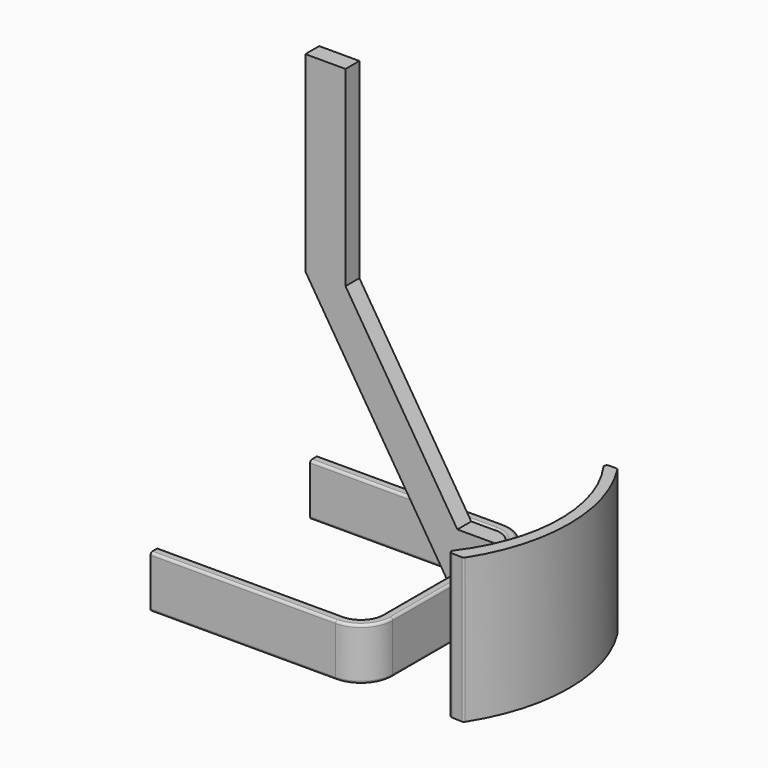
from build123d import *

# Parameters (mm, degrees)
F5_DEPTH = 25.4
F6_W     = 7.058582
F6_H     = 33.581745
F7_DEPTH = 3.048


with BuildPart() as f2:
    # F2: sweep along a path in F0
    with BuildLine(Plane.XY) as f2_path:
        Line((0, 0), (32.474126, 0))
        ThreePointArc((32.474126, 0), (35.168203, -1.115923), (36.284126, -3.81))
        Line((36.284126, -3.81), (36.284126, -29.448423))
        ThreePointArc((36.284126, -29.448423), (35.168203, -32.1425), (32.474126, -33.258423))
        Line((32.474126, -33.258423), (0, -33.258423))
    # F1 (on Right) → F2 (sweep)
    with BuildSketch(Plane.YZ):
        with BuildLine():
            Line((0, 8.725308), (0, 0.430952))
            ThreePointArc((0, 0.430952), (0.126223, 0.126223), (0.430952, 0))
            Line((0.430952, 0), (1.345038, 0))
            ThreePointArc((1.345038, 0), (1.649766, 0.126223), (1.775989, 0.430952))
            Line((1.775989, 0.430952), (1.775989, 8.725308))
            ThreePointArc((1.775989, 8.725308), (1.649766, 9.030036), (1.345038, 9.156259))
            Line((1.345038, 9.156259), (0.430952, 9.156259))
            ThreePointArc((0.430952, 9.156259), (0.126223, 9.030036), (0, 8.725308))
        make_face()
    sweep(path=f2_path.line)

    # F6 (on Front) → F7 (join)
    with BuildSketch(Plane.XZ):
        Polygon((1.587123, 40.12217), (26.826905, 0), (26.826905, 8.893286), (28.29096, 8.893286), (8.645705, 40.12217), align=None)
        with Locations((5.116414, 56.913042)):
            Rectangle(F6_W, F6_H)
        Polygon((33.885487, 0), (48.002653, 0), (48.430447, 0), (48.430447, 8.893286), (28.29096, 8.893286), align=None)
        Polygon((26.826905, 0), (33.885487, 0), (28.29096, 8.893286), (26.826905, 8.893286), align=None)
        Polygon((1.587123, 40.12217), (26.826905, 0), (26.826905, 8.893286), (28.29096, 8.893286), (8.645705, 40.12217), align=None)
        with Locations((5.116414, 56.913042)):
            Rectangle(F6_W, F6_H)
    extrude(amount=F7_DEPTH)


with BuildPart() as f5:
    # F3 (on Top) → F5 (new body)
    with BuildSketch(Plane.XY):
        with BuildLine():
            ThreePointArc((53.73077, -33.867376), (53.960206, -33.817039), (54.133862, -33.658868))
            ThreePointArc((54.133862, -33.658868), (59.037975, -16.932751), (54.126455, -0.208807))
            ThreePointArc((54.126455, -0.208807), (53.961932, -0.055603), (53.744108, 0))
            Line((53.744108, 0), (52.466234, 0))
            ThreePointArc((52.466234, 0), (52.062386, -0.246033), (52.095803, -0.717742))
            ThreePointArc((52.095803, -0.717742), (57.138975, -16.972726), (51.571178, -33.055566))
            ThreePointArc((51.571178, -33.055566), (51.52122, -33.523275), (51.912239, -33.784717))
            Line((51.912239, -33.784717), (53.73077, -33.867376))
        make_face()
    extrude(amount=F5_DEPTH)


solid = Compound([f2.part, f5.part])
